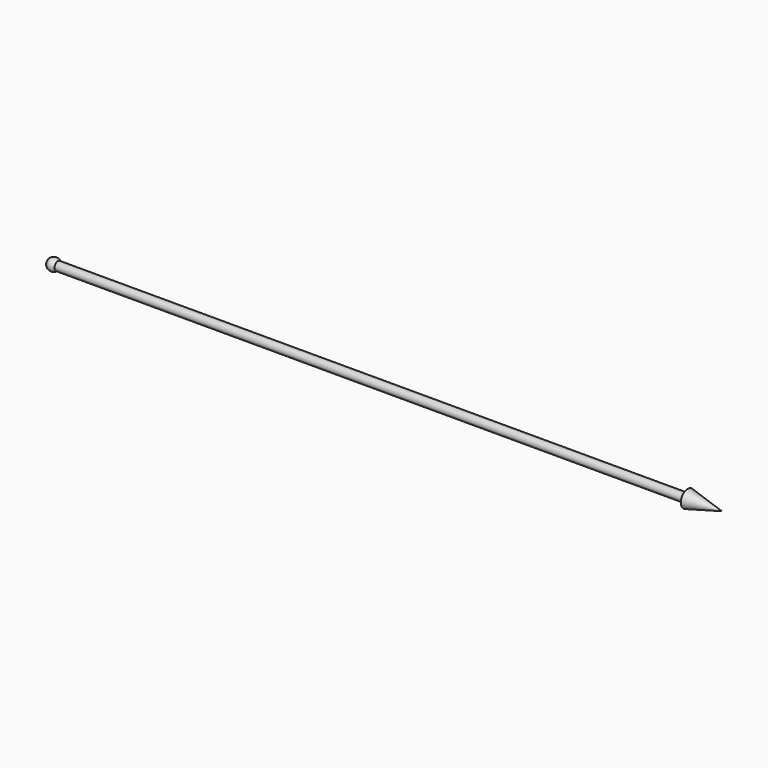
from build123d import *

# Parameters (mm, degrees)
CYLINDER_R     = 25
CYLINDER_DEPTH = 3700


with BuildPart() as sphere:
    # Sphere → Sphere (revolve)
    with BuildSketch(Plane.XZ):
        with BuildLine():
            ThreePointArc((0, -35), (35, 0), (0, 35))
            Line((0, 35), (0, -35))
        make_face()
    revolve(axis=Axis((0, 0, 0), (0, 0, 1)))


with BuildPart() as cone:
    # Cone → Cone (revolve)
    with BuildSketch(Plane(origin=(3700, 0, 0), x_dir=(0, 0, -1), z_dir=(0, -1, 0))):
        Polygon((0, 0), (50, 0), (0, 200), align=None)
    revolve(axis=Axis((3700, 0, 0), (1, 0, 0)))


with BuildPart() as fusion:
    # Cylinder → Cylinder (new body)
    with BuildSketch(Plane(origin=(0, 0, 0), x_dir=(0, 0, -1), z_dir=(1, 0, 0))):
        Circle(CYLINDER_R)
    extrude(amount=CYLINDER_DEPTH)

    # Fusion: union Sphere, Cone
    add(sphere.part)
    add(cone.part)


solid = fusion.part
